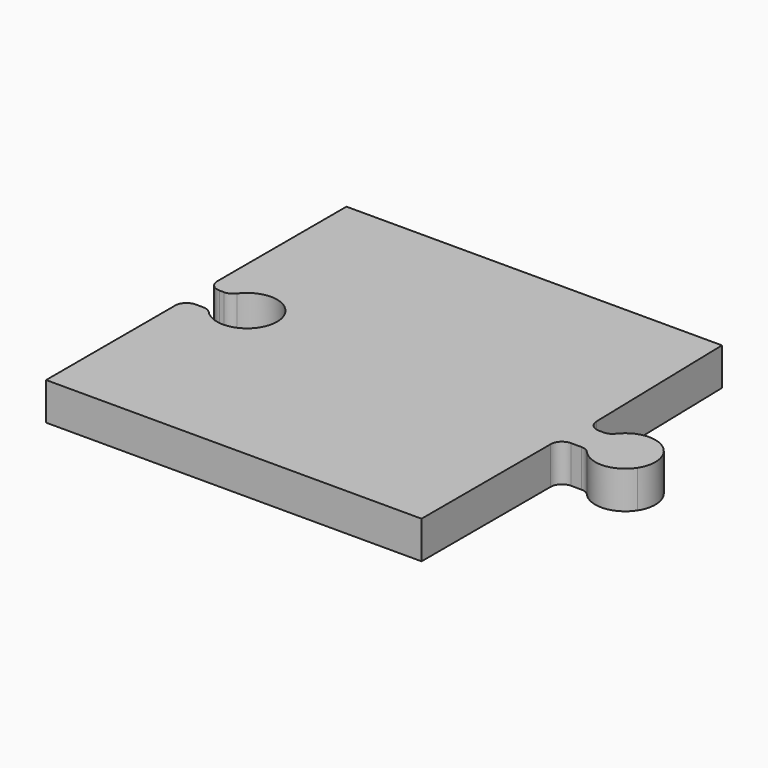
from build123d import *

# Parameters (mm, degrees)
F1_DEPTH = 5


with BuildPart() as f1:
    # F0 (on Top) → F1 (new body)
    with BuildSketch(Plane.XY):
        with BuildLine():
            Line((21.641407, 3.508914), (21.122372, 25.04304))
            Line((21.122372, 25.04304), (-28.877628, 25.04304))
            Line((-28.877628, 25.04304), (-28.877628, 3.54304))
            ThreePointArc((-28.877628, 3.54304), (-28.438288, 2.48238), (-27.377628, 2.04304))
            Line((-27.377628, 2.04304), (-26.754604, 2.04304))
            ThreePointArc((-26.754604, 2.04304), (-26.075812, 2.205415), (-25.543978, 2.657385))
            ThreePointArc((-25.543978, 2.657385), (-21.957112, 4.279539), (-18.717504, 2.04304))
            ThreePointArc((-18.717504, 2.04304), (-18.326309, 0.003702), (-19.010222, -1.95696))
            ThreePointArc((-19.010222, -1.95696), (-22.01054, -3.692708), (-25.239965, -2.433524))
            ThreePointArc((-25.239965, -2.433524), (-25.738738, -2.08125), (-26.336586, -1.95696))
            Line((-26.336586, -1.95696), (-27.377628, -1.95696))
            ThreePointArc((-27.377628, -1.95696), (-28.438288, -2.3963), (-28.877628, -3.45696))
            Line((-28.877628, -3.45696), (-28.877628, -24.95696))
            Line((-28.877628, -24.95696), (21.122372, -24.95696))
            Line((21.122372, -24.95696), (21.122372, -3.45696))
            ThreePointArc((21.122372, -3.45696), (21.561712, -2.3963), (22.622372, -1.95696))
            Line((22.622372, -1.95696), (24.022886, -1.95696))
            ThreePointArc((24.022886, -1.95696), (24.637921, -2.088847), (25.144802, -2.461317))
            ThreePointArc((25.144802, -2.461317), (28.452575, -3.793768), (31.509193, -1.95696))
            ThreePointArc((31.509193, -1.95696), (30.43203, 3.469536), (24.963791, 2.629592))
            ThreePointArc((24.963791, 2.629592), (24.435111, 2.19659), (23.769215, 2.043048))
            Line((23.769215, 2.043048), (23.136191, 2.045066))
            ThreePointArc((23.136191, 2.045066), (22.091459, 2.473366), (21.641407, 3.508914))
        make_face()
    extrude(amount=F1_DEPTH)


solid = f1.part
